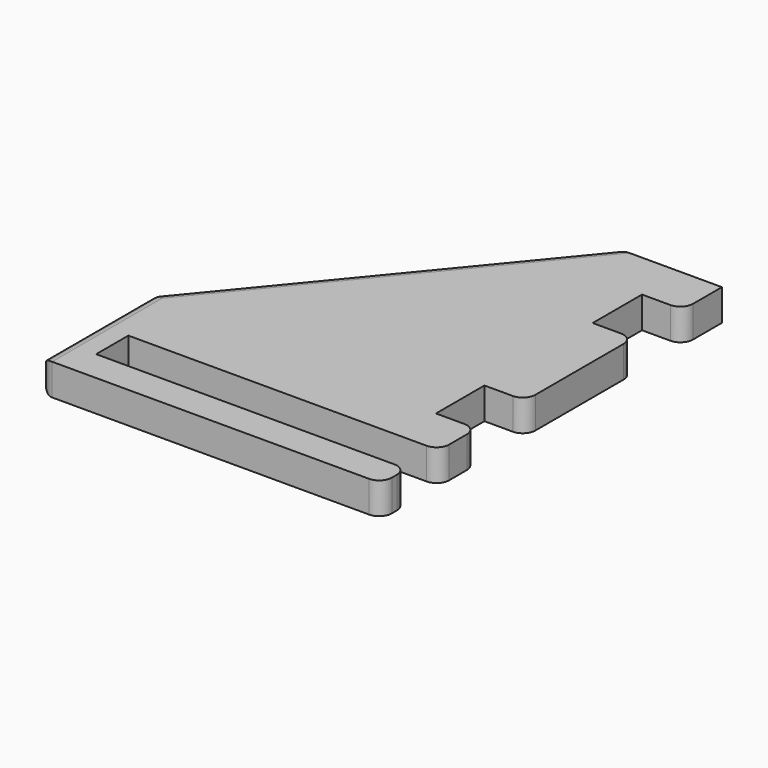
from build123d import *

# Parameters (mm, degrees)
F1_DEPTH = 5
F2_R     = 2


with BuildPart() as f1:
    # F0 (on Top) → F1 (new body)
    with BuildSketch(Plane.XY):
        Polygon((0, 0), (0, 7.5), (-6.5, 7.5), (-6.5, 17.13), (0, 17.13), (0, 38.63), (-6.5, 38.63), (-6.5, 48.43), (0, 48.43), (0, 56.18), (-17.276635, 56.18), (-54.384042, 11.150982), (-54.384042, -11.4), (0, -11.4), (0, -6.4), (-49.384042, -6.4), (-49.384042, 0), align=None)
    extrude(amount=F1_DEPTH)

    # F2
    f2_edges = [f1.edges().sort_by_distance(p)[0] for p in [
        (0, 48.43, 2.5),
        (0, 38.63, 2.5),
        (0, 17.13, 2.5),
        (0, 7.5, 2.5),
        (0, 0, 2.5),
        (0, -6.4, 2.5),
        (0, -11.4, 2.5),
        (-17.276635, 56.18, 2.5),
        (-54.384042, 11.150982, 2.5),
        (-54.384042, -11.4, 2.5),
        (-54.384042, -0.124509, 0),
        (-54.384042, -0.124509, 5),
        (-35.830338, 33.665491, 0),
        (-35.830338, 33.665491, 5),
    ]]
    fillet(f2_edges, radius=F2_R)


solid = f1.part
